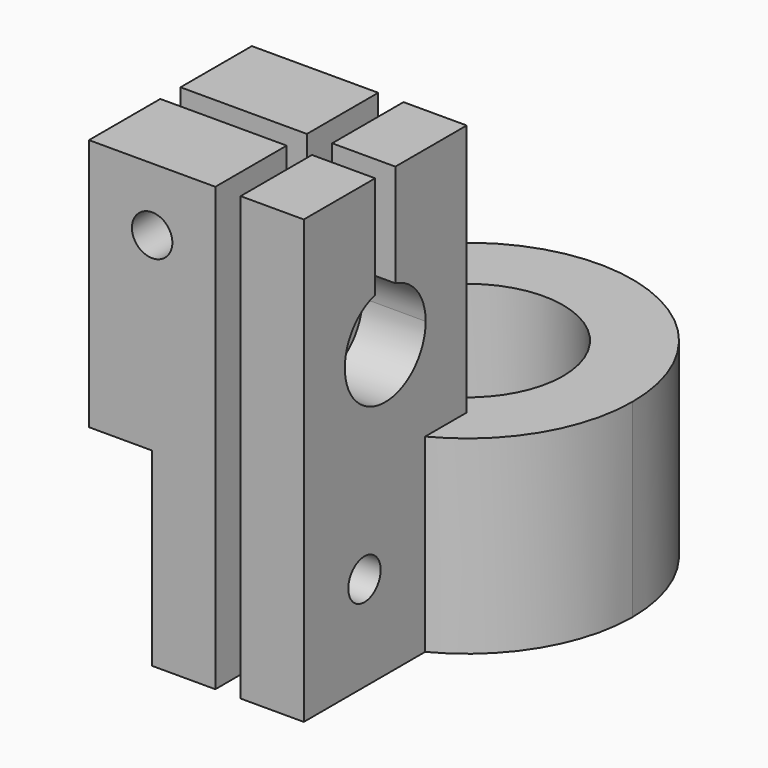
from build123d import *

# Parameters (mm, degrees)
F1_DEPTH  = 15
F2_R      = 1.6
F3_DEPTH  = 20
F4_W      = 5
F4_H      = 16.1112473921
F5_DEPTH  = 20
F6_W      = 16.1112473921
F6_H      = 20
F7_DEPTH  = 5
F9_DEPTH  = 20
F10_R     = 1.6
F11_DEPTH = 20


with BuildPart() as f1:
    # F0 (on Top) → F1 (new body)
    with BuildSketch(Plane.XY):
        with BuildLine():
            Line((-1, -23.6451706729), (-1, -13.0617762957))
            ThreePointArc((-1, -13.0617762957), (-3.570951256, -12.6039004728), (-6, -11.6451706729))
            Line((-6, -11.6451706729), (-6, -23.6451706729))
            Line((-6, -23.6451706729), (-1, -23.6451706729))
        make_face()
        with BuildLine():
            ThreePointArc((6, -11.6451706729), (3.570951256, -12.6039004728), (1, -13.0617762957))
            Line((1, -13.0617762957), (1, -23.6451706729))
            Line((1, -23.6451706729), (6, -23.6451706729))
            Line((6, -23.6451706729), (6, -11.6451706729))
        make_face()
        with BuildLine():
            ThreePointArc((-1, -7.5339232807), (-5.0079936102, 5.7166423712), (7.6, 0))
            ThreePointArc((7.6, 0), (5.7166423712, -5.0079936102), (1, -7.5339232807))
            Line((1, -7.5339232807), (1, -13.0617762957))
            ThreePointArc((1, -13.0617762957), (3.570951256, -12.6039004728), (6, -11.6451706729))
            ThreePointArc((6, -11.6451706729), (11.1850346446, -6.8194574564), (13.1, 0))
            ThreePointArc((13.1, 0), (-6.8194574564, 11.1850346446), (-6, -11.6451706729))
            ThreePointArc((-6, -11.6451706729), (-3.570951256, -12.6039004728), (-1, -13.0617762957))
            Line((-1, -13.0617762957), (-1, -7.5339232807))
        make_face()
    extrude(amount=F1_DEPTH)

    # F2 (on face) → F3 (cut)
    with BuildSketch(Plane.YZ.offset(6)):
        with Locations((-17.6451706729, 7.5)):
            Circle(F2_R)
    extrude(amount=-F3_DEPTH, mode=Mode.SUBTRACT)

    # F4 (on face) → F5 (join)
    with BuildSketch(Plane.XY.offset(15)):
        with Locations((3.5, -15.5895469768)):
            Rectangle(F4_W, F4_H)
        with Locations((-3.5, -15.5895469768)):
            Rectangle(F4_W, F4_H)
    extrude(amount=F5_DEPTH)

    # F6 (on face) → F7 (join)
    with BuildSketch(Plane(origin=(-6, 0, 0), x_dir=(0, -1, 0), z_dir=(-1, 0, 0))):
        with Locations((15.5895469768, 25)):
            Rectangle(F6_W, F6_H)
    extrude(amount=F7_DEPTH)

    # F8 (on face) → F9 (cut)
    with BuildSketch(Plane.YZ.offset(6)):
        with BuildLine():
            ThreePointArc((-16.5895469768, 26.8729833462), (-18.0390367196, 19.8377223398), (-11.5895469768, 23))
            ThreePointArc((-11.5895469768, 23), (-12.4272693166, 25.4494897428), (-14.5895469768, 26.8729833462))
            Line((-14.5895469768, 26.8729833462), (-16.5895469768, 26.8729833462))
        make_face()
        with BuildLine():
            Line((-16.5895469768, 26.8729833462), (-14.5895469768, 26.8729833462))
            ThreePointArc((-14.5895469768, 26.8729833462), (-15.5895469768, 27), (-16.5895469768, 26.8729833462))
        make_face()
        with BuildLine():
            ThreePointArc((-16.5895469768, 26.8729833462), (-15.5895469768, 27), (-14.5895469768, 26.8729833462))
            Line((-14.5895469768, 26.8729833462), (-14.5895469768, 35))
            Line((-14.5895469768, 35), (-16.5895469768, 35))
            Line((-16.5895469768, 35), (-16.5895469768, 26.8729833462))
        make_face()
    extrude(amount=-F9_DEPTH, mode=Mode.SUBTRACT)

    # F10 (on face) → F11 (cut)
    with BuildSketch(Plane.XZ.offset(23.6451706729)):
        with Locations((-6, 30)):
            Circle(F10_R)
    extrude(amount=-F11_DEPTH, mode=Mode.SUBTRACT)


solid = f1.part
